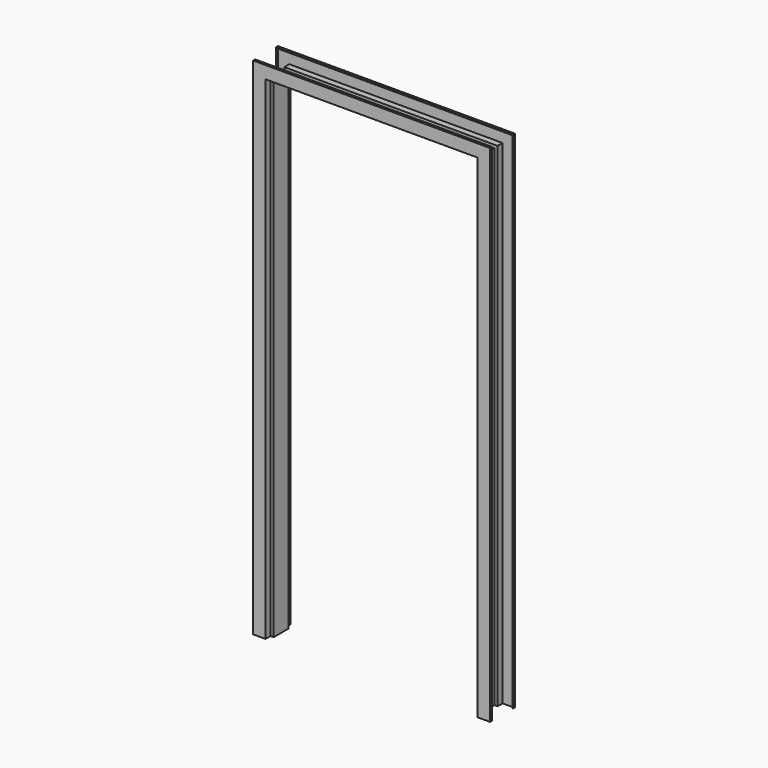
from build123d import *


with BuildPart() as f2:
    # F2: sweep along a path in F1
    with BuildLine(Plane.XZ) as f2_path:
        Line((0, 0), (0, 2032))
        Line((0, 2032), (914.4, 2032))
        Line((914.4, 2032), (914.4, 0))
    # F0 (on Top) → F2 (sweep)
    with BuildSketch(Plane.XY):
        Polygon((-25.4, 63.5), (-25.4, 53.34), (-22.86, 53.34), (-22.86, 60.96), (22.86, 60.96), (22.86, 35.5600006602), (35.56, 35.5600006602), (35.56, -35.5600006602), (22.86, -35.5600006602), (22.86, -60.96), (-22.86, -60.96), (-22.86, -53.34), (-25.4, -53.34), (-25.4, -63.5), (25.4, -63.5), (25.4, -38.1000006602), (38.1, -38.1000006602), (38.1, 38.0999993398), (25.4, 38.0999993398), (25.4, 63.5), align=None)
    sweep(path=f2_path.line, transition=Transition.RIGHT)


solid = f2.part
